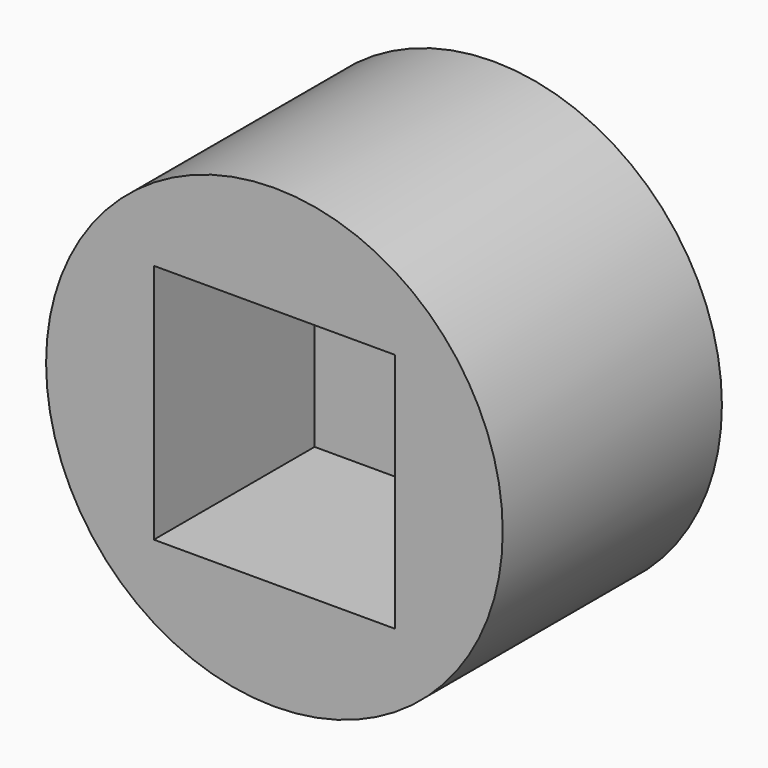
from build123d import *

# Parameters (mm, degrees)
F0_R     = 3.175
F1_DEPTH = 3.81
F2_W     = 3.3528
F2_H     = 3.3528
F3_DEPTH = 2.794


with BuildPart() as f1:
    # F0 (on Front) → F1 (new body)
    with BuildSketch(Plane.XZ):
        Circle(F0_R)
    extrude(amount=F1_DEPTH)

    # F2 (on face) → F3 (cut)
    with BuildSketch(Plane.XZ.offset(3.81)):
        Rectangle(F2_W, F2_H)
    extrude(amount=-F3_DEPTH, mode=Mode.SUBTRACT)


solid = f1.part
